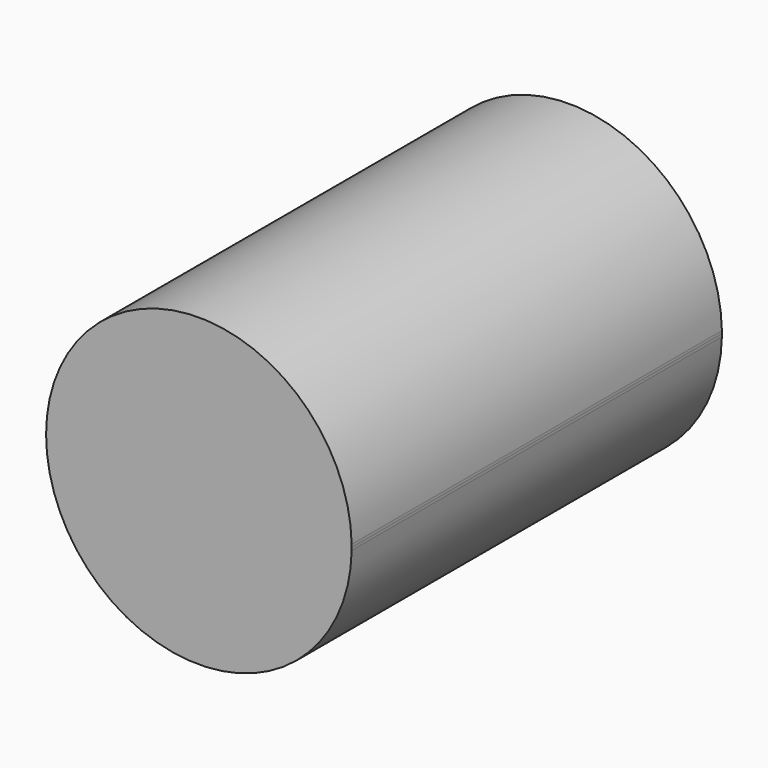
from build123d import *

# Parameters (mm, degrees)
F1_DEPTH = 127


with BuildPart() as f1:
    # F0 (on Front) → F1 (new body)
    with BuildSketch(Plane.XZ):
        with BuildLine():
            Line((58.081221, 21.51135), (58.081221, 22.987527))
            ThreePointArc((58.081221, 22.987527), (-25.775809, 22.249438), (58.081221, 21.51135))
        make_face()
        with BuildLine():
            ThreePointArc((58.081221, 21.51135), (58.086093, 21.88038), (58.087717, 22.249438))
            ThreePointArc((58.087717, 22.249438), (58.086093, 22.618497), (58.081221, 22.987527))
            Line((58.081221, 22.987527), (58.081221, 21.51135))
        make_face()
    extrude(amount=F1_DEPTH)


solid = f1.part
